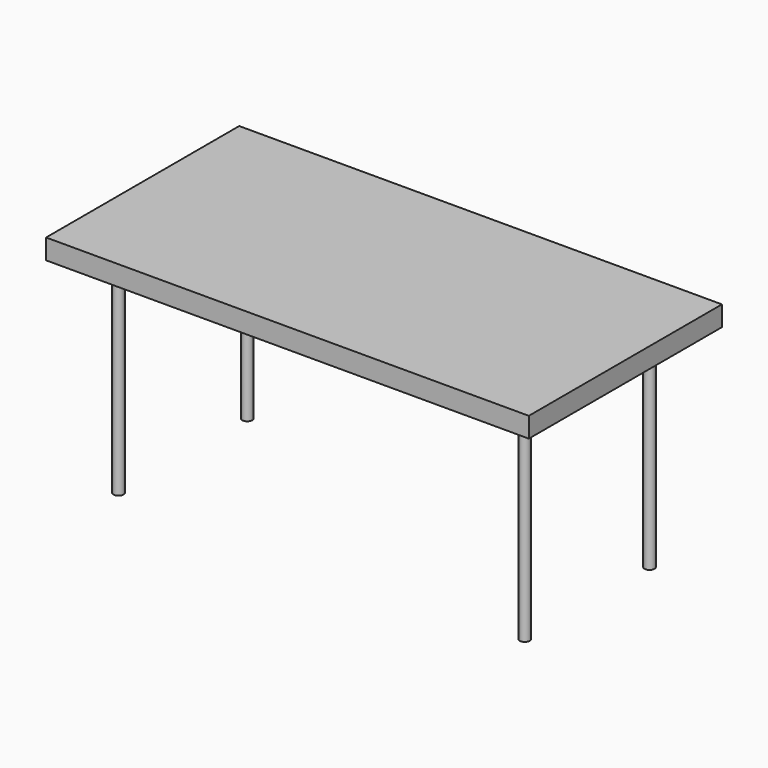
from build123d import *

# Parameters (mm, degrees)
F0_W     = 914.4
F0_H     = 38.1
F1_DEPTH = 228.6
F2_R     = 9.525
F3_DEPTH = 393.7


with BuildPart() as f1:
    # F0 (on Front) → F1 (new body, symmetric)
    with BuildSketch(Plane.XZ):
        Rectangle(F0_W, F0_H)
    extrude(amount=F1_DEPTH, both=True)

    # F2 (on face) → F3 (join)
    with BuildSketch(Plane(origin=(0, 0, -19.05), x_dir=(1, 0, 0), z_dir=(0, 0, -1))):
        with Locations((-381, 152.4)):
            Circle(F2_R)
        with Locations((-381, -152.4)):
            Circle(F2_R)
        with Locations((381, -152.4)):
            Circle(F2_R)
        with Locations((381, 142.875)):
            Circle(F2_R)
    extrude(amount=F3_DEPTH)


solid = f1.part
